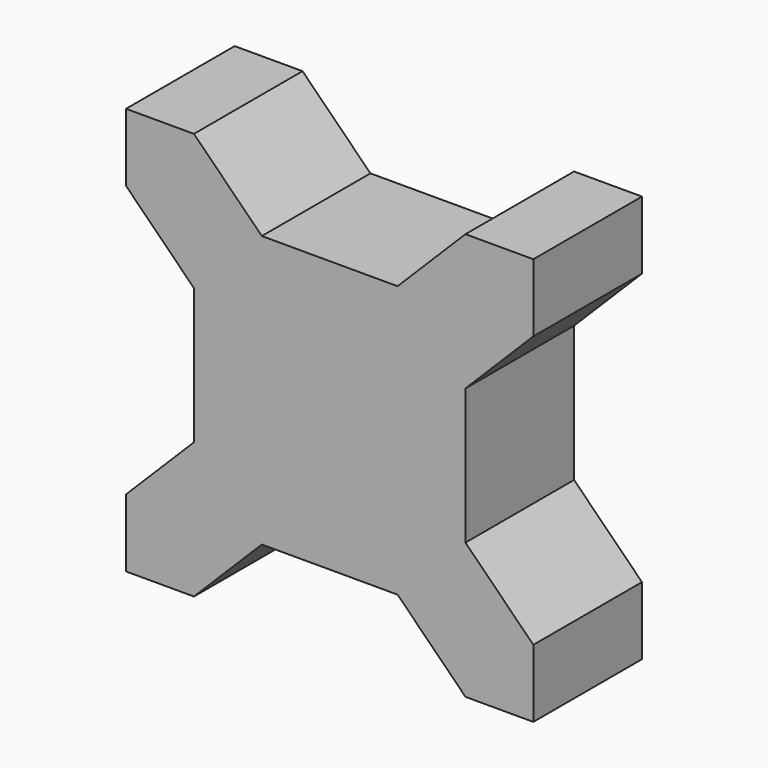
from build123d import *

# Parameters (mm, degrees)
F1_DEPTH = 50.8


with BuildPart() as f1:
    # F0 (on Front) → F1 (new body)
    with BuildSketch(Plane.XZ):
        Polygon((0, 50.8), (-25.4, 50.8), (-50.8, 76.2), (-76.2, 76.2), (-76.2, 50.8), (-50.8, 25.4), (-50.8, -25.4), (-76.2, -50.8), (-76.2, -76.2), (-50.8, -76.2), (-25.4, -50.8), (0, -50.8), (25.4, -50.8), (50.8, -76.2), (76.2, -76.2), (76.2, -50.8), (50.8, -25.4), (50.8, 25.4), (76.2, 50.8), (76.2, 76.2), (50.8, 76.2), (25.4, 50.8), align=None)
    extrude(amount=F1_DEPTH)


solid = f1.part
